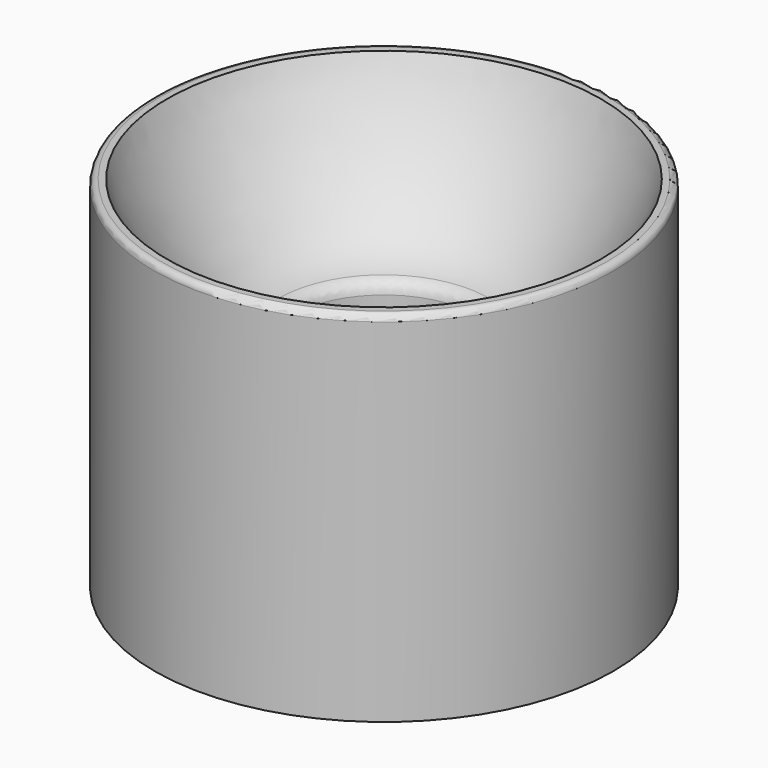
from build123d import *

# Parameters (mm, degrees)
F2_R = 2
F3_R = 1


with BuildPart() as f1:
    # F0 (on Front) → F1 (revolve)
    with BuildSketch(Plane.XZ):
        with BuildLine():
            Line((15, 35), (15, 0))
            Line((15, 0), (36.5, 0))
            Line((36.5, 0), (36.5, 57))
            Line((36.5, 57), (34.5, 57))
            add(Edge.make_bspline(
                [(15, 35), (19.786455, 33.476222), (30.260691, 45.408688), (34.5, 57)],
                knots=[0, 0, 0, 0, 29.398129, 29.398129, 29.398129, 29.398129], degree=3))
        make_face()
    revolve(axis=Axis((0, 0, 19.474553), (0, 0, 1)))

    # F2
    f2_edges = [f1.edges().sort_by_distance(p)[0] for p in [
        (-15, 0, 35),
    ]]
    fillet(f2_edges, radius=F2_R)

    # F3
    f3_edges = [f1.edges().sort_by_distance(p)[0] for p in [
        (-36.5, 0, 57),
    ]]
    fillet(f3_edges, radius=F3_R)


solid = f1.part
